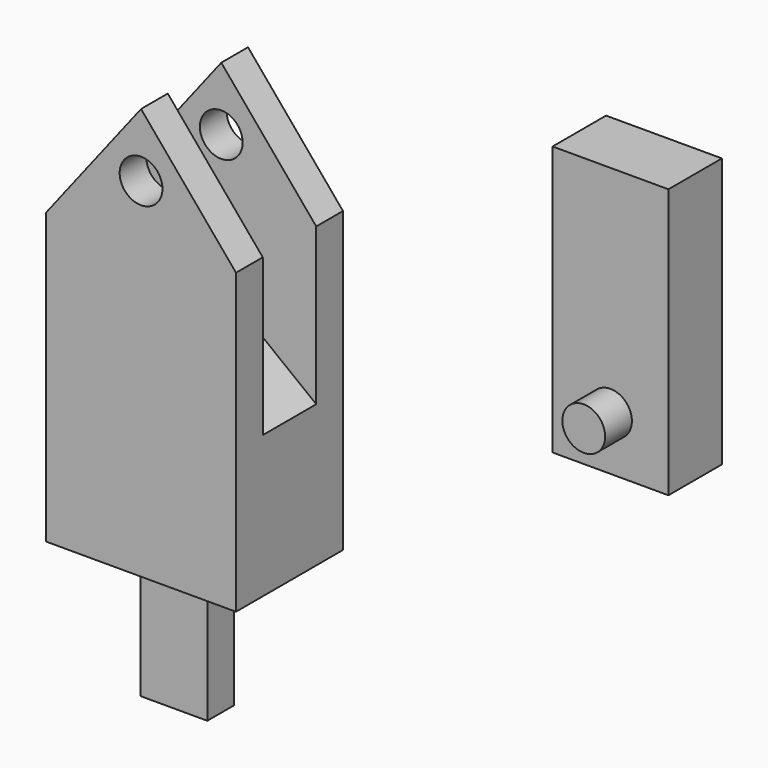
from build123d import *

# Parameters (mm, degrees)
F0_R      = 2.032
F1_DEPTH  = 12.7
F2_W      = 6.35
F2_H      = 14.692879385
F3_DEPTH  = 25.4
F4_W      = 11.0059620068
F4_H      = 25.5892152746
F5_DEPTH  = 6.35
F6_R      = 2.032
F8_DEPTH  = 3.175
F7_R      = 2.032
F9_DEPTH  = 3.175
F10_W     = 6.35
F10_H     = 3.175
F11_DEPTH = 12.7


with BuildPart() as f1:
    # F0 (on Front) → F1 (new body)
    with BuildSketch(Plane.XZ):
        Polygon((-12.4060919796, 25.8314568394), (-21.4263913222, 36.5925505482), (-30.4466906647, 24.9944944872), (-30.4466906647, -2.5175290372), (-12.4060919796, -2.5175290372), align=None)
        with Locations((-21.4263913222, 30.5741173131)):
            Circle(F0_R, mode=Mode.SUBTRACT)
    extrude(amount=F1_DEPTH)

    # F2 (on face) → F3 (cut)
    with BuildSketch(Plane(origin=(-31.0838625283, 0, 24.1752361994), x_dir=(0, -1, 0), z_dir=(-0.7893657708, 0, 0.6139231873))):
        with Locations((6.35, 8.3843087237)):
            Rectangle(F2_W, F2_H)
    extrude(amount=-F3_DEPTH, mode=Mode.SUBTRACT)

    # F10 (on face) → F11 (join)
    with BuildSketch(Plane(origin=(0, 0, -2.5175290372), x_dir=(1, 0, 0), z_dir=(0, 0, -1))):
        with Locations((-21.540818736, 7.0673617972)):
            Rectangle(F10_W, F10_H)
    extrude(amount=F11_DEPTH)


with BuildPart() as f5:
    # F4 (on Front) → F5 (new body)
    with BuildSketch(Plane.XZ):
        with Locations((18.0854215287, 29.1388873011)):
            Rectangle(F4_W, F4_H)
    extrude(amount=F5_DEPTH)

    # F6 (on face) → F8 (join)
    with BuildSketch(Plane.XZ.offset(6.35)):
        with Locations((18.0854215287, 21.4242796638)):
            Circle(F6_R)
    extrude(amount=F8_DEPTH)

    # F7 (on face) → F9 (join)
    with BuildSketch(Plane(origin=(0, 0, 0), x_dir=(-1, 0, 0), z_dir=(0, 1, 0))):
        with Locations((-18.0854215287, 21.4242796638)):
            Circle(F7_R)
    extrude(amount=F9_DEPTH)


solid = Compound([f1.part, f5.part])
